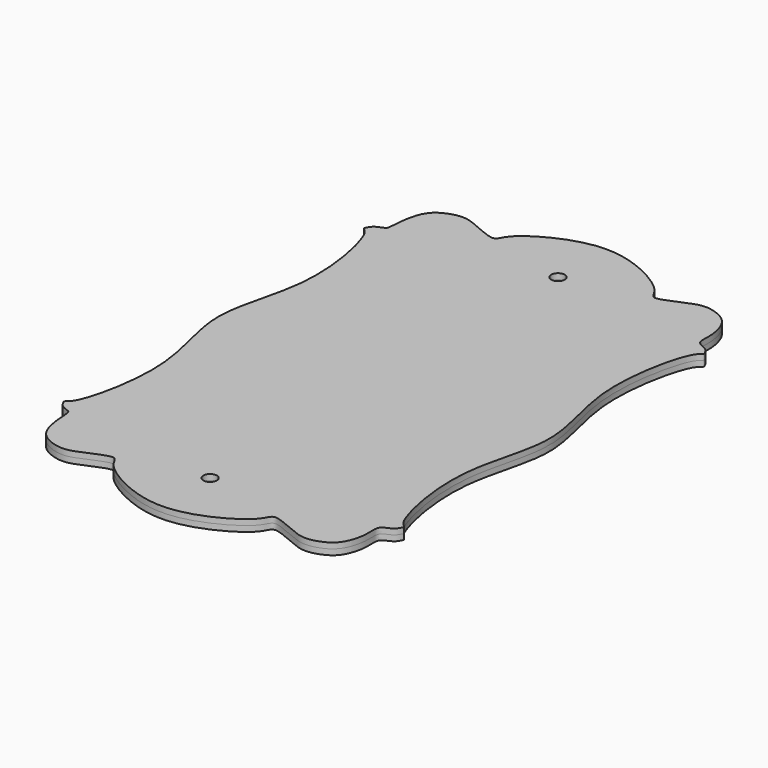
from build123d import *

# Parameters (mm, degrees)
F0_R     = 6
F1_DEPTH = 5


with BuildPart() as f1:
    # F0 (on Top) → F1 (new body, symmetric)
    with BuildSketch(Plane.XY):
        with BuildLine():
            add(Edge.make_bspline(
                [(-146.48172, 0), (-146.48172, 25.4478153819), (-122.5467325745, 75.678158022), (-141.5791277863, 161.5954978407), (-150.9725570258, 165.244016864), (-149.8414871478, 167.931445087), (-146.8828805914, 173.134693532), (-139.5384022991, 174.9752703775), (-137.3853538588, 177.2925586054), (-137.3838373596, 190.1519040409), (-133.2845158848, 211.3766015223), (-119.9014584444, 219.6853062402), (-106.8270023644, 222.5142095845), (-95.4638608233, 219.1897380057), (-72.9074034574, 208.324201111), (-68.88825128, 211.5557632932), (-66.978464727, 214.9676927601), (-60.8974388018, 225.9400648682), (-1.16807e-05, 260.581099675), (60.89747164, 225.9400554088), (66.9784285598, 214.9677039291), (68.8883246138, 211.5557405344), (72.9069082139, 208.324354886), (95.4683645376, 219.1883394976), (106.8154131797, 222.5178083021), (119.9454566233, 219.6716437565), (133.0860078368, 211.438243005), (138.1981443915, 189.8990422884), (135.2946940658, 175.9692044489), (146.9081170888, 173.3837837124), (149.8145140132, 167.9418781187), (150.9826656424, 165.240108017), (141.5657505805, 161.6006525105), (122.5524359182, 75.6762541385), (158.6048306843, 0), (122.5524359182, -75.6762541385), (141.5657505805, -161.6006525105), (150.9826656424, -165.240108017), (149.8145140132, -167.9418781187), (146.9081170888, -173.3837837124), (135.2946940658, -175.9692044489), (138.1981443915, -189.8990422884), (133.0860078368, -211.438243005), (119.9454566233, -219.6716437565), (106.8154131797, -222.5178083021), (95.4683645376, -219.1883394976), (72.9069082139, -208.324354886), (68.8883246138, -211.5557405344), (66.9784285598, -214.9677039291), (60.89747164, -225.9400554088), (-1.16807e-05, -260.581099675), (-60.8974388018, -225.9400648682), (-66.978464727, -214.9676927601), (-68.88825128, -211.5557632932), (-72.9074034574, -208.324201111), (-95.4638608233, -219.1897380057), (-106.8270023644, -222.5142095845), (-119.9014584444, -219.6853062402), (-133.2845158848, -211.3766015223), (-137.3838373596, -190.1519040409), (-137.3853538588, -177.2925586054), (-139.5384022991, -174.9752703775), (-146.8828805914, -173.134693532), (-149.8414871478, -167.931445087), (-150.9725570258, -165.244016864), (-141.5791277863, -161.5954978407), (-122.5467325745, -75.678158022), (-146.48172, -25.4478153819), (-146.48172, 0)],
                knots=[0, 0, 0, 0, 0.0341655307, 0.0674378641, 0.0765384861, 0.0817683397, 0.0908163485, 0.1008025352, 0.1067758727, 0.1197328544, 0.1370494884, 0.1513548064, 0.1644054957, 0.1778180472, 0.1959949985, 0.2032359734, 0.2099960741, 0.2221795566, 0.2522129485, 0.2822463404, 0.2944298229, 0.3011899235, 0.3084308985, 0.3266078498, 0.3400204013, 0.3530710906, 0.3673764086, 0.3846930426, 0.3976500243, 0.4091836515, 0.4182316603, 0.4234615139, 0.4325621359, 0.4658344693, 0.5, 0.5341655307, 0.5674378641, 0.5765384861, 0.5817683397, 0.5908163485, 0.6023499757, 0.6153069574, 0.6326235914, 0.6469289094, 0.6599795987, 0.6733921502, 0.6915691015, 0.6988100765, 0.7055701771, 0.7177536596, 0.7477870515, 0.7778204434, 0.7900039259, 0.7967640266, 0.8040050015, 0.8221819528, 0.8355945043, 0.8486451936, 0.8629505116, 0.8802671456, 0.8932241273, 0.8991974648, 0.9091836515, 0.9182316603, 0.9234615139, 0.9325621359, 0.9658344693, 1, 1, 1, 1], degree=3))
        make_face()
        with Locations((0, -192.5)):
            Circle(F0_R, mode=Mode.SUBTRACT)
        with Locations((0, 192.5)):
            Circle(F0_R, mode=Mode.SUBTRACT)
    extrude(amount=F1_DEPTH, both=True)


solid = f1.part
